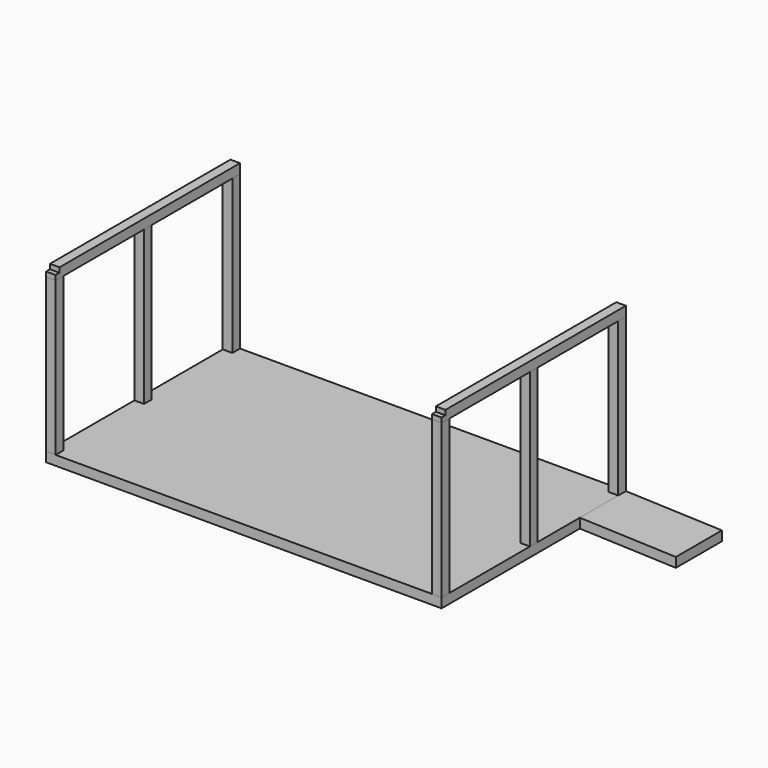
from build123d import *

# Parameters (mm, degrees)
F0_W      = 6278.88
F0_H      = 3657.6
F1_DEPTH  = 152.4
F2_W      = 152.4
F2_H      = 152.4
F3_DEPTH  = 2438.4
F4_W      = 152.4
F4_H      = 152.4
F5_DEPTH  = 2438.4
F7_DEPTH  = 914.4
F8_W      = 152.4
F8_H      = 152.4
F9_DEPTH  = 3657.6
F10_W     = 152.4
F10_H     = 76.2
F11_DEPTH = 76.2


with BuildPart() as f1:
    # F0 (on Top) → F1 (new body)
    with BuildSketch(Plane.XY):
        Rectangle(F0_W, F0_H)
    extrude(amount=F1_DEPTH)

    # F6 (on face) → F7 (join)
    with BuildSketch(Plane(origin=(0, 1828.8, 0), x_dir=(-1, 0, 0), z_dir=(0, 1, 0))):
        Polygon((-3139.44, 0), (-3139.44, 152.4), (-4663.44, 99.1807472946), (-4663.44, -53.2192527054), align=None)
    extrude(amount=-F7_DEPTH)


with BuildPart() as f3:
    # F2 (on face) → F3 (new body)
    with BuildSketch(Plane.XY.offset(152.4)):
        with Locations((-3063.24, -1752.6)):
            Rectangle(F2_W, F2_H)
    extrude(amount=F3_DEPTH)


with BuildPart() as f3b:
    # F2 (on face) → F3, piece 2 (new body)
    with BuildSketch(Plane.XY.offset(152.4)):
        with Locations((-3063.24, 1752.6)):
            Rectangle(F2_W, F2_H)
    extrude(amount=F3_DEPTH)


with BuildPart() as f3c:
    # F2 (on face) → F3, piece 3 (new body)
    with BuildSketch(Plane.XY.offset(152.4)):
        with Locations((3063.24, 1752.6)):
            Rectangle(F2_W, F2_H)
    extrude(amount=F3_DEPTH)


with BuildPart() as f3d:
    # F2 (on face) → F3, piece 4 (new body)
    with BuildSketch(Plane.XY.offset(152.4)):
        with Locations((3063.24, -1752.6)):
            Rectangle(F2_W, F2_H)
    extrude(amount=F3_DEPTH)


with BuildPart() as f5:
    # F4 (on face) → F5 (new body)
    with BuildSketch(Plane.XY.offset(152.4)):
        with Locations((-3063.24, 0)):
            Rectangle(F4_W, F4_H)
    extrude(amount=F5_DEPTH)


with BuildPart() as f5b:
    # F4 (on face) → F5, piece 2 (new body)
    with BuildSketch(Plane.XY.offset(152.4)):
        with Locations((3063.24, 0)):
            Rectangle(F4_W, F4_H)
    extrude(amount=F5_DEPTH)


with BuildPart() as f9:
    # F8 (on face) → F9 (new body)
    with BuildSketch(Plane.XZ.offset(1828.8)):
        with Locations((-3063.24, 2667)):
            Rectangle(F8_W, F8_H)
    extrude(amount=-F9_DEPTH)

    # F10 (on face) → F11 (cut)
    with BuildSketch(Plane.XZ.offset(1828.8)):
        with Locations((-3063.24, 2705.1)):
            Rectangle(F10_W, F10_H)
    extrude(amount=-F11_DEPTH, mode=Mode.SUBTRACT)


with BuildPart() as f12_1:
    # F12: instance of F9
    add(f9.part.mirror(Plane.YZ))


solid = Compound([f1.part, f3.part, f3b.part, f3c.part, f3d.part, f5.part, f5b.part, f9.part, f12_1.part])
